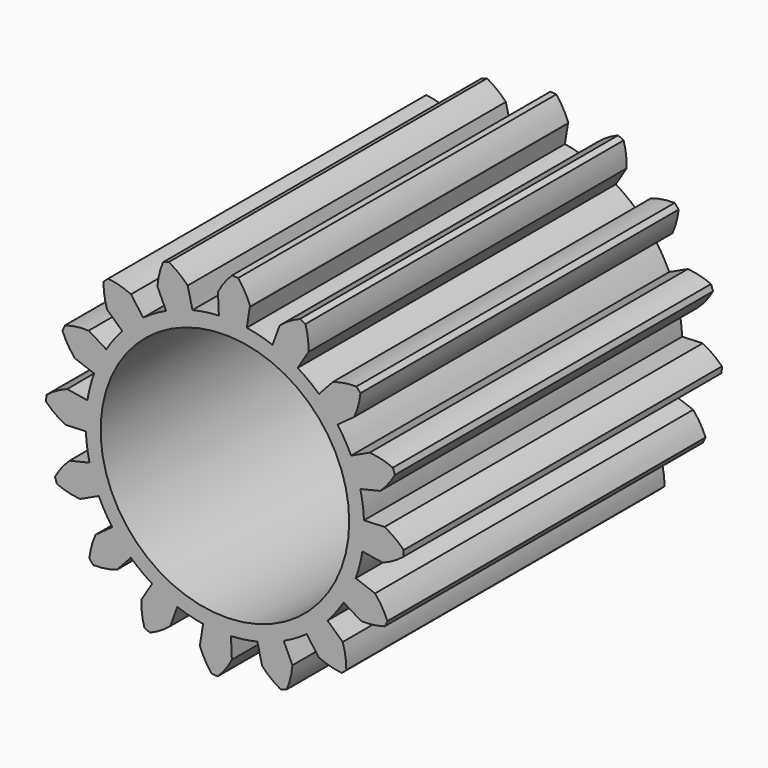
from build123d import *

# Parameters (mm, degrees)
F0_R     = 31.75
F1_DEPTH = 101.6
F2_R     = 31.75
F3_DEPTH = 25.4


with BuildPart() as f1:
    # F0 (on Front) → F1 (new body)
    with BuildSketch(Plane.XZ):
        with BuildLine():
            ThreePointArc((6.401351, 40.312523), (5.106646, 43.076548), (3.381897, 45.594749))
            ThreePointArc((3.381897, 45.594749), (2.604737, 45.645742), (1.826821, 45.683489))
            ThreePointArc((1.826821, 45.683489), (-0.173197, 43.377838), (-1.773928, 40.779038))
            Line((-1.773928, 40.779038), (-1.766209, 40.601602))
            Line((-1.766209, 40.601602), (-1.545433, 35.526402))
            ThreePointArc((-1.545433, 35.526402), (-4.939165, 35.215313), (-8.287532, 34.580781))
            Line((-8.287532, 34.580781), (-9.512858, 39.693606))
            ThreePointArc((-9.512858, 39.693606), (-11.766756, 41.75177), (-14.32389, 43.418252))
            ThreePointArc((-14.32389, 43.418252), (-15.061406, 43.167956), (-15.794552, 42.905134))
            ThreePointArc((-15.794552, 42.905134), (-16.759993, 40.009617), (-17.244358, 36.996066))
            Line((-17.244358, 36.996066), (-15.023159, 32.230704))
            ThreePointArc((-15.023159, 32.230704), (-18.03951, 30.64457), (-20.890174, 28.776974))
            Line((-20.890174, 28.776974), (-23.97882, 33.031697))
            ThreePointArc((-23.97882, 33.031697), (-26.848775, 34.070663), (-29.848994, 34.631719))
            ThreePointArc((-29.848994, 34.631719), (-30.434587, 34.118241), (-31.011347, 33.594862))
            ThreePointArc((-31.011347, 33.594862), (-30.795232, 30.550294), (-30.089491, 27.580778))
            Line((-30.089491, 27.580778), (-26.213746, 24.028174))
            ThreePointArc((-26.213746, 24.028174), (-28.393504, 21.408469), (-30.312475, 18.592134))
            Line((-30.312475, 18.592134), (-34.794224, 21.341012))
            ThreePointArc((-34.794224, 21.341012), (-37.843312, 21.202607), (-40.82986, 20.572821))
            ThreePointArc((-40.82986, 20.572821), (-41.174377, 19.874332), (-41.506946, 19.170076))
            ThreePointArc((-41.506946, 19.170076), (-40.142176, 16.439967), (-38.353772, 13.966567))
            Line((-38.353772, 13.966567), (-33.413527, 12.167572))
            ThreePointArc((-33.413527, 12.167572), (-34.424843, 8.913123), (-35.119977, 5.57681))
            Line((-35.119977, 5.57681), (-40.312523, 6.401351))
            ThreePointArc((-40.312523, 6.401351), (-43.076548, 5.106646), (-45.594749, 3.381897))
            ThreePointArc((-45.594749, 3.381897), (-45.645742, 2.604737), (-45.683489, 1.826821))
            ThreePointArc((-45.683489, 1.826821), (-43.377838, -0.173197), (-40.779038, -1.773928))
            Line((-40.779038, -1.773928), (-35.526402, -1.545433))
            ThreePointArc((-35.526402, -1.545433), (-35.215313, -4.939165), (-34.580781, -8.287532))
            Line((-34.580781, -8.287532), (-39.693606, -9.512858))
            ThreePointArc((-39.693606, -9.512858), (-41.75177, -11.766756), (-43.418252, -14.32389))
            ThreePointArc((-43.418252, -14.32389), (-43.167956, -15.061406), (-42.905134, -15.794552))
            ThreePointArc((-42.905134, -15.794552), (-40.009617, -16.759993), (-36.996066, -17.244358))
            Line((-36.996066, -17.244358), (-32.230704, -15.023159))
            ThreePointArc((-32.230704, -15.023159), (-30.64457, -18.03951), (-28.776974, -20.890174))
            Line((-28.776974, -20.890174), (-33.031697, -23.97882))
            ThreePointArc((-33.031697, -23.97882), (-34.070663, -26.848775), (-34.631719, -29.848994))
            ThreePointArc((-34.631719, -29.848994), (-34.118241, -30.434587), (-33.594862, -31.011347))
            ThreePointArc((-33.594862, -31.011347), (-30.550294, -30.795232), (-27.580778, -30.089491))
            Line((-27.580778, -30.089491), (-24.028174, -26.213746))
            ThreePointArc((-24.028174, -26.213746), (-21.408469, -28.393504), (-18.592134, -30.312475))
            Line((-18.592134, -30.312475), (-21.341012, -34.794224))
            ThreePointArc((-21.341012, -34.794224), (-21.202607, -37.843312), (-20.572821, -40.82986))
            ThreePointArc((-20.572821, -40.82986), (-19.874332, -41.174377), (-19.170076, -41.506946))
            ThreePointArc((-19.170076, -41.506946), (-16.439967, -40.142176), (-13.966567, -38.353772))
            Line((-13.966567, -38.353772), (-12.167572, -33.413527))
            ThreePointArc((-12.167572, -33.413527), (-8.913123, -34.424843), (-5.57681, -35.119977))
            Line((-5.57681, -35.119977), (-6.401351, -40.312523))
            ThreePointArc((-6.401351, -40.312523), (-5.106646, -43.076548), (-3.381897, -45.594749))
            ThreePointArc((-3.381897, -45.594749), (-2.604737, -45.645742), (-1.826821, -45.683489))
            ThreePointArc((-1.826821, -45.683489), (0.173197, -43.377838), (1.773928, -40.779038))
            Line((1.773928, -40.779038), (1.545433, -35.526402))
            ThreePointArc((1.545433, -35.526402), (4.939165, -35.215313), (8.287532, -34.580781))
            Line((8.287532, -34.580781), (9.512858, -39.693606))
            ThreePointArc((9.512858, -39.693606), (11.766756, -41.75177), (14.32389, -43.418252))
            ThreePointArc((14.32389, -43.418252), (15.061406, -43.167956), (15.794552, -42.905134))
            ThreePointArc((15.794552, -42.905134), (16.759993, -40.009617), (17.244358, -36.996066))
            Line((17.244358, -36.996066), (15.023159, -32.230704))
            ThreePointArc((15.023159, -32.230704), (18.03951, -30.64457), (20.890174, -28.776974))
            Line((20.890174, -28.776974), (23.97882, -33.031697))
            ThreePointArc((23.97882, -33.031697), (26.848775, -34.070663), (29.848994, -34.631719))
            ThreePointArc((29.848994, -34.631719), (30.434587, -34.118241), (31.011347, -33.594862))
            ThreePointArc((31.011347, -33.594862), (30.795232, -30.550294), (30.089491, -27.580778))
            Line((30.089491, -27.580778), (26.213746, -24.028174))
            ThreePointArc((26.213746, -24.028174), (28.393504, -21.408469), (30.312475, -18.592134))
            Line((30.312475, -18.592134), (34.794224, -21.341012))
            ThreePointArc((34.794224, -21.341012), (37.843312, -21.202607), (40.82986, -20.572821))
            ThreePointArc((40.82986, -20.572821), (41.174377, -19.874332), (41.506946, -19.170076))
            ThreePointArc((41.506946, -19.170076), (40.142176, -16.439967), (38.353772, -13.966567))
            Line((38.353772, -13.966567), (33.413527, -12.167572))
            ThreePointArc((33.413527, -12.167572), (34.424843, -8.913123), (35.119977, -5.57681))
            Line((35.119977, -5.57681), (40.312523, -6.401351))
            ThreePointArc((40.312523, -6.401351), (43.076548, -5.106646), (45.594749, -3.381897))
            ThreePointArc((45.594749, -3.381897), (45.645742, -2.604737), (45.683489, -1.826821))
            ThreePointArc((45.683489, -1.826821), (43.377838, 0.173197), (40.779038, 1.773928))
            Line((40.779038, 1.773928), (35.526402, 1.545433))
            ThreePointArc((35.526402, 1.545433), (35.215313, 4.939165), (34.580781, 8.287532))
            Line((34.580781, 8.287532), (39.693606, 9.512858))
            ThreePointArc((39.693606, 9.512858), (41.75177, 11.766756), (43.418252, 14.32389))
            ThreePointArc((43.418252, 14.32389), (43.167956, 15.061406), (42.905134, 15.794552))
            ThreePointArc((42.905134, 15.794552), (40.009617, 16.759993), (36.996066, 17.244358))
            Line((36.996066, 17.244358), (32.230704, 15.023159))
            ThreePointArc((32.230704, 15.023159), (30.64457, 18.03951), (28.776974, 20.890174))
            Line((28.776974, 20.890174), (33.031697, 23.97882))
            ThreePointArc((33.031697, 23.97882), (34.070663, 26.848775), (34.631719, 29.848994))
            ThreePointArc((34.631719, 29.848994), (34.118241, 30.434587), (33.594862, 31.011347))
            ThreePointArc((33.594862, 31.011347), (30.550294, 30.795232), (27.580778, 30.089491))
            Line((27.580778, 30.089491), (24.028174, 26.213746))
            ThreePointArc((24.028174, 26.213746), (21.408469, 28.393504), (18.592134, 30.312475))
            Line((18.592134, 30.312475), (21.341012, 34.794224))
            ThreePointArc((21.341012, 34.794224), (21.202607, 37.843312), (20.572821, 40.82986))
            ThreePointArc((20.572821, 40.82986), (19.874332, 41.174377), (19.170076, 41.506946))
            ThreePointArc((19.170076, 41.506946), (16.439967, 40.142176), (13.966567, 38.353772))
            Line((13.966567, 38.353772), (12.167572, 33.413527))
            ThreePointArc((12.167572, 33.413527), (8.913123, 34.424843), (5.57681, 35.119977))
            Line((5.57681, 35.119977), (6.373497, 40.137117))
            Line((6.373497, 40.137117), (6.401351, 40.312523))
        make_face()
        Circle(F0_R, mode=Mode.SUBTRACT)
        with BuildLine():
            ThreePointArc((6.471406, 40.121447), (6.436637, 40.21708), (6.401351, 40.312523))
            Line((6.401351, 40.312523), (6.373497, 40.137117))
            ThreePointArc((6.373497, 40.137117), (6.422456, 40.129312), (6.471406, 40.121447))
        make_face()
        with BuildLine():
            Line((-1.766209, 40.601602), (-1.773928, 40.779038))
            ThreePointArc((-1.773928, 40.779038), (-1.819842, 40.688229), (-1.865264, 40.597172))
            ThreePointArc((-1.865264, 40.597172), (-1.815738, 40.599417), (-1.766209, 40.601602))
        make_face()
    extrude(amount=F1_DEPTH)

    # F2 (on Front) → F3 (join)
    with BuildSketch(Plane.XZ):
        Circle(F2_R)
    extrude(amount=F3_DEPTH)


solid = f1.part
